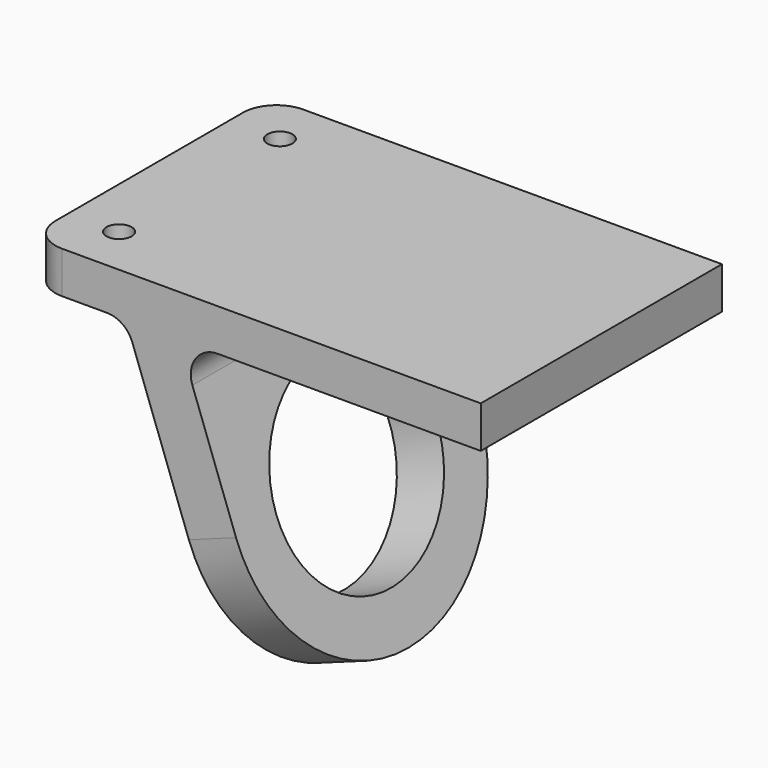
from build123d import *

# Parameters (mm, degrees)
F0_R     = 2.38125
F1_DEPTH = 7.9375
F3_DEPTH = 57.15
F4_R     = 19.05
F5_DEPTH = 9.525
F6_R     = 5.08


with BuildPart() as f1:
    # F0 (on Top) → F1 (new body)
    with BuildSketch(Plane.XY):
        with BuildLine():
            ThreePointArc((-18.0711051613, 33.4467460997), (-22.5612332218, 31.5868741602), (-24.4211051613, 27.0967460997))
            Line((-24.4211051613, 27.0967460997), (-24.4211051613, -17.3532539003))
            ThreePointArc((-24.4211051613, -17.3532539003), (-22.5612332218, -21.8433819608), (-18.0711051613, -23.7032539003))
            Line((-18.0711051613, -23.7032539003), (61.290320009, -23.7032539003))
            Line((61.290320009, -23.7032539003), (61.290320009, 33.4467460997))
            Line((61.290320009, 33.4467460997), (-18.0711051613, 33.4467460997))
        make_face()
        with Locations((-14.8961051613, -14.1782539003)):
            Circle(F0_R, mode=Mode.SUBTRACT)
        with Locations((-14.8961051613, 23.9217460997)):
            Circle(F0_R, mode=Mode.SUBTRACT)
    extrude(amount=-F1_DEPTH)

    # F2 (on face) → F3 (join)
    with BuildSketch(Plane.XZ.offset(23.7032539003)):
        Polygon((4.140320009, -7.9375), (-5.9959732738, -7.9375), (15.7223058273, -67.6079814199), (24.6728780403, -64.3502395547), align=None)
    extrude(amount=-F3_DEPTH)

    # F4 (on face) → F5 (cut, through all)
    with BuildSketch(Plane(origin=(-7.8456409666, 0, -2.8555797806), x_dir=(0, -1, 0), z_dir=(-0.9396926208, 0, -0.3420201433))):
        with Locations((-4.8717460997, -40.333066539)):
            Circle(F4_R)
        with BuildLine():
            ThreePointArc((-4.8717460546, -68.908066539), (-25.0773223561, -60.5386428273), (-33.4467460997, -40.333066539))
            Line((-33.4467460997, -40.333066539), (-33.4467460997, -68.908066539))
            Line((-33.4467460997, -68.908066539), (-4.8717460546, -68.908066539))
        make_face()
        with BuildLine():
            ThreePointArc((23.7032539003, -40.333066539), (15.3338301887, -60.5386427955), (-4.8717460546, -68.908066539))
            Line((-4.8717460546, -68.908066539), (23.7032539003, -68.908066539))
            Line((23.7032539003, -68.908066539), (23.7032539003, -40.333066539))
        make_face()
    extrude(amount=-F5_DEPTH, mode=Mode.SUBTRACT)

    # F6
    f6_edges = [f1.edges().sort_by_distance(p)[0] for p in [
        (-5.995973, 4.871746, -7.9375),
        (4.14032, 4.871746, -7.9375),
    ]]
    fillet(f6_edges, radius=F6_R)


solid = f1.part
